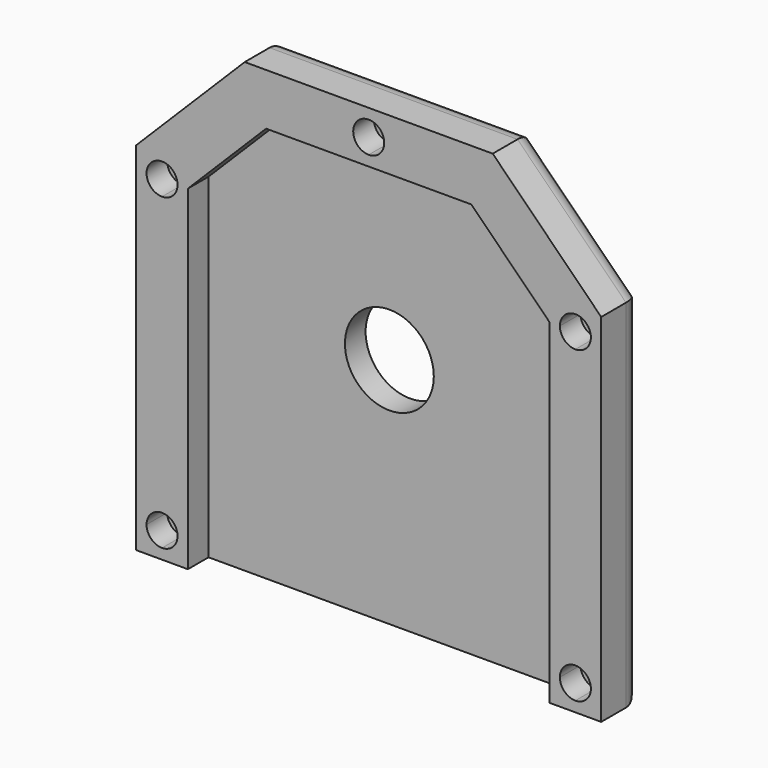
from build123d import *

# Parameters (mm, degrees)
F0_W     = 45
F0_H     = 45
F1_DEPTH = 2.5
F2_SIZE  = 10.5
F4_DEPTH = 2.5
F5_R     = 2
F3_R     = 4.3
F6_DEPTH = 25
F8_DEPTH = 2.5


with BuildPart() as f1:
    # F0 (on Front) → F1 (new body)
    with BuildSketch(Plane.XZ):
        Rectangle(F0_W, F0_H)
    extrude(amount=F1_DEPTH)

    # F2
    f2_edges = [f1.edges().sort_by_distance(p)[0] for p in [
        (-22.5, -1.25, 22.5),
        (22.5, -1.25, 22.5),
    ]]
    chamfer(f2_edges, length=F2_SIZE)

    # F3 (on face) → F4 (join)
    with BuildSketch(Plane.XZ.offset(2.5)):
        Polygon((-17.5, -22.5), (-17.5, 9.928932), (-9.928932, 17.5), (9.928932, 17.5), (17.5, 9.928932), (17.5, -22.5), (22.5, -22.5), (22.5, 12), (12, 22.5), (-12, 22.5), (-22.5, 12), (-22.5, -22.5), align=None)
    extrude(amount=F4_DEPTH)

    # F5
    f5_edges = [f1.edges().sort_by_distance(p)[0] for p in [
        (22.5, 0, -5.25),
        (17.25, 0, 17.25),
        (0, 0, -22.5),
        (0, 0, 22.5),
        (-22.5, 0, -5.25),
        (-17.25, 0, 17.25),
    ]]
    fillet(f5_edges, radius=F5_R)

    # F3 (on face) → F6 (cut)
    with BuildSketch(Plane.XZ.offset(2.5)):
        Circle(F3_R)
    extrude(amount=-F6_DEPTH, mode=Mode.SUBTRACT)

    # F7 (on face) → F8 (cut)
    with BuildSketch(Plane.XZ.offset(5)):
        with BuildLine():
            Line((20, -20), (18.5, -20))
            ThreePointArc((18.5, -20), (18.93934, -21.06066), (20, -21.5))
            Line((20, -21.5), (20, -20))
        make_face()
        with BuildLine():
            ThreePointArc((21.5, -20), (20, -18.5), (18.5, -20))
            Line((18.5, -20), (20, -20))
            Line((20, -20), (20, -21.5))
            ThreePointArc((20, -21.5), (21.06066, -21.06066), (21.5, -20))
        make_face()
        with BuildLine():
            ThreePointArc((-21.5, -20), (-21.06066, -21.06066), (-20, -21.5))
            Line((-20, -21.5), (-20, -20))
            Line((-20, -20), (-21.5, -20))
        make_face()
        with BuildLine():
            Line((-20, -20), (-20, -21.5))
            ThreePointArc((-20, -21.5), (-18.93934, -21.06066), (-18.5, -20))
            ThreePointArc((-18.5, -20), (-20, -18.5), (-21.5, -20))
            Line((-21.5, -20), (-20, -20))
        make_face()
        with BuildLine():
            ThreePointArc((-20, 8.428932), (-18.93934, 8.868272), (-18.5, 9.928932))
            Line((-18.5, 9.928932), (-20, 9.928932))
            Line((-20, 9.928932), (-20, 8.428932))
        make_face()
        with BuildLine():
            Line((-20, 9.928932), (-18.5, 9.928932))
            ThreePointArc((-18.5, 9.928932), (-21.06066, 10.989592), (-20, 8.428932))
            Line((-20, 8.428932), (-20, 9.928932))
        make_face()
        with BuildLine():
            ThreePointArc((1.5, 20), (-1.06066, 21.06066), (0, 18.5))
            ThreePointArc((0, 18.5), (1.06066, 18.93934), (1.5, 20))
        make_face()
        with BuildLine():
            Line((20, 9.928932), (18.5, 9.928932))
            ThreePointArc((18.5, 9.928932), (18.93934, 8.868272), (20, 8.428932))
            Line((20, 8.428932), (20, 9.928932))
        make_face()
        with BuildLine():
            ThreePointArc((21.5, 9.928932), (20, 11.428932), (18.5, 9.928932))
            Line((18.5, 9.928932), (20, 9.928932))
            Line((20, 9.928932), (20, 8.428932))
            ThreePointArc((20, 8.428932), (21.06066, 8.868272), (21.5, 9.928932))
        make_face()
    extrude(amount=-F8_DEPTH, mode=Mode.SUBTRACT)


solid = f1.part
